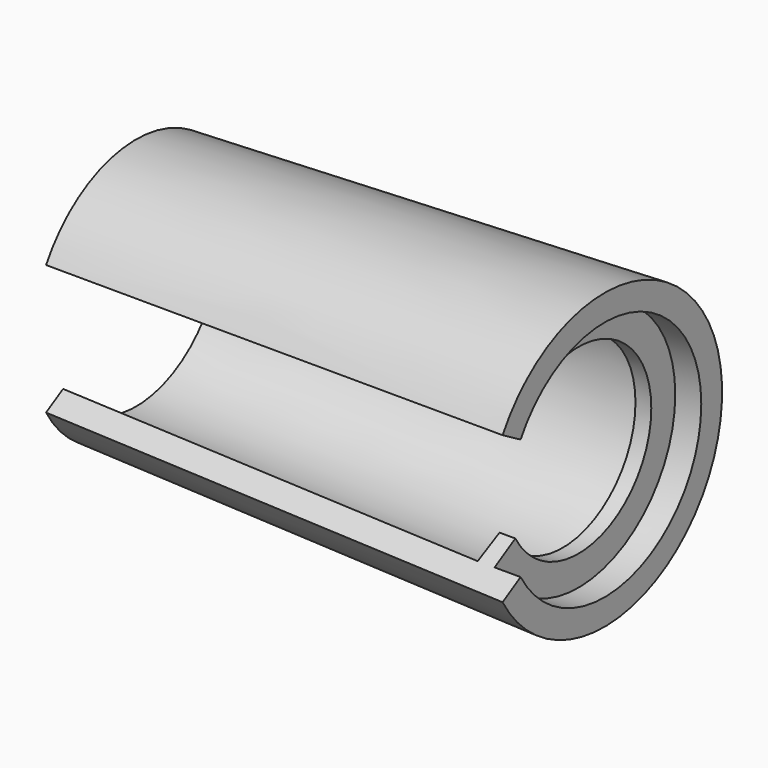
from build123d import *

# Parameters (mm, degrees)
F1_ANGLE = 300


with BuildPart() as f1:
    # F0 (on Top) → F1 (revolve, symmetric)
    with BuildSketch(Plane.XY) as f1_sk:
        Polygon((-21.172499, 4.990224), (-21.172499, 4.05), (-4.822499, 4.65), (-4.780297, 3.5), (-4.172499, 3.5), (-4.172499, 4.650774), (-3.172499, 4.650774), (-3.172499, 5.650774), align=None)
    revolve(axis=Axis((-11.689553, 0, 0), (-1, 0, 0)), revolution_arc=F1_ANGLE / 2)
    revolve(f1_sk.sketch, axis=Axis((-11.689553, 0, 0), (1, 0, 0)), revolution_arc=F1_ANGLE / 2)


solid = f1.part
